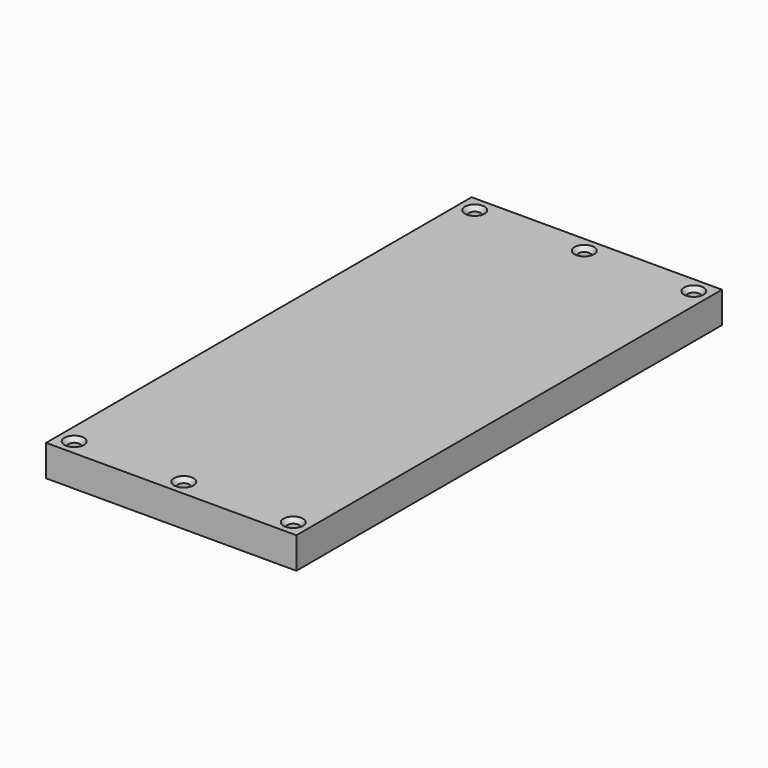
from build123d import *

# Parameters (mm, degrees)
F0_W           = 101.6
F0_H           = 215.9
F1_DEPTH       = 12.7
F3_D           = 4.7625
F3_CSINK_D     = 7.9375
F3_CSINK_ANGLE = 85


with BuildPart() as f1:
    # F0 (on Top) → F1 (new body)
    with BuildSketch(Plane.XY):
        Rectangle(F0_W, F0_H)
    extrude(amount=F1_DEPTH)

    # F3 (through all)
    with Locations(Plane.XY.offset(12.7)):
        with Locations((0, 101.6), (44.45, 101.6), (-44.45, 101.6), (0, -101.6), (44.45, -101.6), (-44.45, -101.6)):
            CounterSinkHole(F3_D / 2, F3_CSINK_D / 2, counter_sink_angle=F3_CSINK_ANGLE)


solid = f1.part
